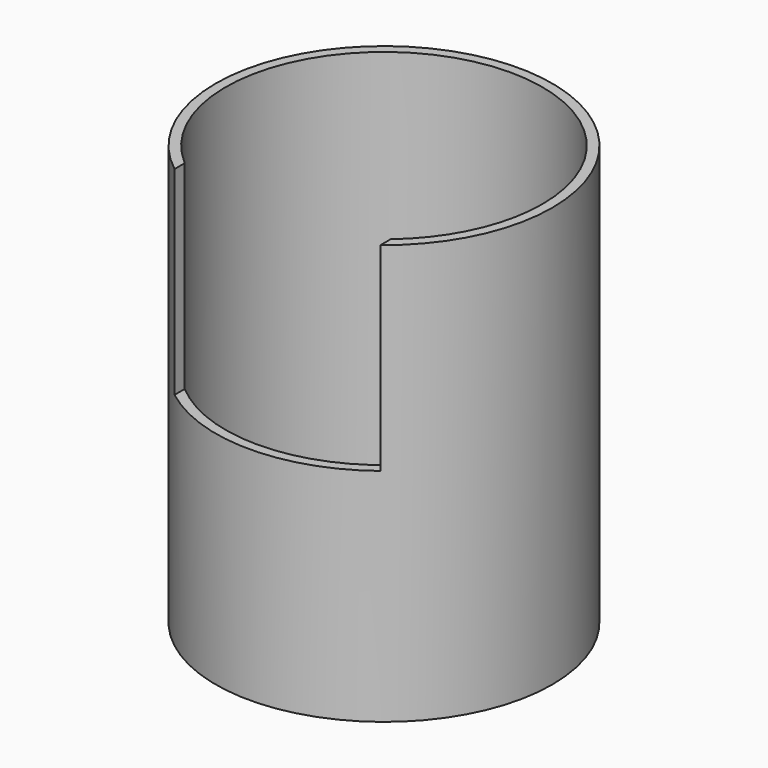
from build123d import *

# Parameters (mm, degrees)
F0_R     = 53.975
F0_R_2   = 50.8
F1_DEPTH = 134.62
F2_W     = 66.04
F2_H     = 127
F3_DEPTH = 89.662


with BuildPart() as f1:
    # F0 (on Top) → F1 (new body)
    with BuildSketch(Plane.XY):
        Circle(F0_R)
        Circle(F0_R_2, mode=Mode.SUBTRACT)
    extrude(amount=F1_DEPTH)

    # F2 (on Front) → F3 (cut)
    with BuildSketch(Plane.XZ):
        with Locations((0, 134.354532)):
            Rectangle(F2_W, F2_H)
    extrude(amount=F3_DEPTH, mode=Mode.SUBTRACT)


solid = f1.part
